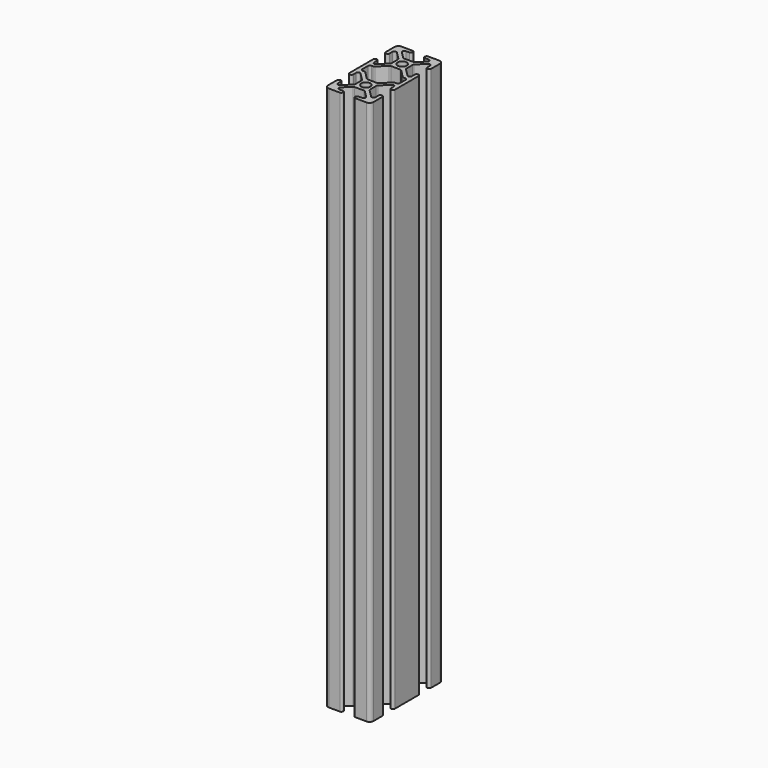
from build123d import *

# Parameters (mm, degrees)
F0_R     = 2.5
F1_DEPTH = 300


with BuildPart() as f1:
    # F0 (on Top) → F1 (new body)
    with BuildSketch(Plane.XY):
        with BuildLine():
            ThreePointArc((-10.36, 12.5), (-11.873209, 11.873209), (-12.5, 10.36))
            Line((-12.5, 10.36), (-12.5, 4.32))
            ThreePointArc((-12.5, 4.32), (-11.43, 3.25), (-10.36, 4.32))
            Line((-10.36, 4.32), (-10.36, 6.263583))
            ThreePointArc((-10.36, 6.263583), (-9.699471, 7.252134), (-8.533396, 7.020187))
            Line((-8.533396, 7.020187), (-4.363396, 2.850187))
            ThreePointArc((-4.363396, 2.850187), (-4.131449, 2.503054), (-4.05, 2.093583))
            Line((-4.05, 2.093583), (-4.05, 0))
            Line((-4.05, 0), (-4.05, -2.093583))
            ThreePointArc((-4.05, -2.093583), (-4.131449, -2.503054), (-4.363396, -2.850187))
            Line((-4.363396, -2.850187), (-8.533396, -7.020187))
            ThreePointArc((-8.533396, -7.020187), (-9.699471, -7.252134), (-10.36, -6.263583))
            Line((-10.36, -6.263583), (-10.36, -4.32))
            ThreePointArc((-10.36, -4.32), (-11.43, -3.25), (-12.5, -4.32))
            Line((-12.5, -4.32), (-12.5, -12.5))
            Line((-12.5, -12.5), (-12.5, -20.68))
            ThreePointArc((-12.5, -20.68), (-11.43, -21.75), (-10.36, -20.68))
            Line((-10.36, -20.68), (-10.36, -18.736417))
            ThreePointArc((-10.36, -18.736417), (-9.699471, -17.747866), (-8.533396, -17.979813))
            Line((-8.533396, -17.979813), (-4.363396, -22.149813))
            ThreePointArc((-4.363396, -22.149813), (-4.131449, -22.496946), (-4.05, -22.906417))
            Line((-4.05, -22.906417), (-4.05, -25))
            Line((-4.05, -25), (-4.05, -27.093583))
            ThreePointArc((-4.05, -27.093583), (-4.131449, -27.503054), (-4.363396, -27.850187))
            Line((-4.363396, -27.850187), (-8.533396, -32.020187))
            ThreePointArc((-8.533396, -32.020187), (-9.699471, -32.252134), (-10.36, -31.263583))
            Line((-10.36, -31.263583), (-10.36, -29.32))
            ThreePointArc((-10.36, -29.32), (-11.43, -28.25), (-12.5, -29.32))
            Line((-12.5, -29.32), (-12.5, -35.36))
            ThreePointArc((-12.5, -35.36), (-11.873209, -36.873209), (-10.36, -37.5))
            Line((-10.36, -37.5), (-4.32, -37.5))
            ThreePointArc((-4.32, -37.5), (-3.25, -36.43), (-4.32, -35.36))
            Line((-4.32, -35.36), (-6.263583, -35.36))
            ThreePointArc((-6.263583, -35.36), (-7.252134, -34.699471), (-7.020187, -33.533396))
            Line((-7.020187, -33.533396), (-3.310187, -29.823396))
            ThreePointArc((-3.310187, -29.823396), (-2.963054, -29.591449), (-2.553583, -29.51))
            Line((-2.553583, -29.51), (0, -29.51))
            Line((0, -29.51), (2.553583, -29.51))
            ThreePointArc((2.553583, -29.51), (2.963054, -29.591449), (3.310187, -29.823396))
            Line((3.310187, -29.823396), (7.020187, -33.533396))
            ThreePointArc((7.020187, -33.533396), (7.252134, -34.699471), (6.263583, -35.36))
            Line((6.263583, -35.36), (4.32, -35.36))
            ThreePointArc((4.32, -35.36), (3.25, -36.43), (4.32, -37.5))
            Line((4.32, -37.5), (10.36, -37.5))
            ThreePointArc((10.36, -37.5), (11.873209, -36.873209), (12.5, -35.36))
            Line((12.5, -35.36), (12.5, -29.32))
            ThreePointArc((12.5, -29.32), (11.43, -28.25), (10.36, -29.32))
            Line((10.36, -29.32), (10.36, -31.263583))
            ThreePointArc((10.36, -31.263583), (9.699471, -32.252134), (8.533396, -32.020187))
            Line((8.533396, -32.020187), (4.363396, -27.850187))
            ThreePointArc((4.363396, -27.850187), (4.131449, -27.503054), (4.05, -27.093583))
            Line((4.05, -27.093583), (4.05, -25))
            Line((4.05, -25), (4.05, -22.906417))
            ThreePointArc((4.05, -22.906417), (4.131449, -22.496946), (4.363396, -22.149813))
            Line((4.363396, -22.149813), (8.533396, -17.979813))
            ThreePointArc((8.533396, -17.979813), (9.699471, -17.747866), (10.36, -18.736417))
            Line((10.36, -18.736417), (10.36, -20.68))
            ThreePointArc((10.36, -20.68), (11.43, -21.75), (12.5, -20.68))
            Line((12.5, -20.68), (12.5, -12.5))
            Line((12.5, -12.5), (12.5, -4.32))
            ThreePointArc((12.5, -4.32), (11.43, -3.25), (10.36, -4.32))
            Line((10.36, -4.32), (10.36, -6.263583))
            ThreePointArc((10.36, -6.263583), (9.699471, -7.252134), (8.533396, -7.020187))
            Line((8.533396, -7.020187), (4.363396, -2.850187))
            ThreePointArc((4.363396, -2.850187), (4.131449, -2.503054), (4.05, -2.093583))
            Line((4.05, -2.093583), (4.05, 0))
            Line((4.05, 0), (4.05, 2.093583))
            ThreePointArc((4.05, 2.093583), (4.131449, 2.503054), (4.363396, 2.850187))
            Line((4.363396, 2.850187), (8.533396, 7.020187))
            ThreePointArc((8.533396, 7.020187), (9.699471, 7.252134), (10.36, 6.263583))
            Line((10.36, 6.263583), (10.36, 4.32))
            ThreePointArc((10.36, 4.32), (11.43, 3.25), (12.5, 4.32))
            Line((12.5, 4.32), (12.5, 10.36))
            ThreePointArc((12.5, 10.36), (11.873209, 11.873209), (10.36, 12.5))
            Line((10.36, 12.5), (4.32, 12.5))
            ThreePointArc((4.32, 12.5), (3.25, 11.43), (4.32, 10.36))
            Line((4.32, 10.36), (6.263583, 10.36))
            ThreePointArc((6.263583, 10.36), (7.252134, 9.699471), (7.020187, 8.533396))
            Line((7.020187, 8.533396), (3.310187, 4.823396))
            ThreePointArc((3.310187, 4.823396), (2.963054, 4.591449), (2.553583, 4.51))
            Line((2.553583, 4.51), (0, 4.51))
            Line((0, 4.51), (-2.553583, 4.51))
            ThreePointArc((-2.553583, 4.51), (-2.963054, 4.591449), (-3.310187, 4.823396))
            Line((-3.310187, 4.823396), (-7.020187, 8.533396))
            ThreePointArc((-7.020187, 8.533396), (-7.252134, 9.699471), (-6.263583, 10.36))
            Line((-6.263583, 10.36), (-4.32, 10.36))
            ThreePointArc((-4.32, 10.36), (-3.25, 11.43), (-4.32, 12.5))
            Line((-4.32, 12.5), (-10.36, 12.5))
        make_face()
        with Locations((0, -25)):
            Circle(F0_R, mode=Mode.SUBTRACT)
        with BuildLine():
            Line((-2.553583, -4.51), (0, -4.51))
            Line((0, -4.51), (2.553583, -4.51))
            ThreePointArc((2.553583, -4.51), (2.963054, -4.591449), (3.310187, -4.823396))
            Line((3.310187, -4.823396), (7.646979, -9.160187))
            ThreePointArc((7.646979, -9.160187), (7.994112, -9.392134), (8.403583, -9.473583))
            Line((8.403583, -9.473583), (9.29, -9.473583))
            ThreePointArc((9.29, -9.473583), (10.046604, -9.786979), (10.36, -10.543583))
            Line((10.36, -10.543583), (10.36, -12.5))
            Line((10.36, -12.5), (10.36, -14.456417))
            ThreePointArc((10.36, -14.456417), (10.046604, -15.213021), (9.29, -15.526417))
            Line((9.29, -15.526417), (8.403583, -15.526417))
            ThreePointArc((8.403583, -15.526417), (7.994112, -15.607866), (7.646979, -15.839813))
            Line((7.646979, -15.839813), (3.310187, -20.176604))
            ThreePointArc((3.310187, -20.176604), (2.963054, -20.408551), (2.553583, -20.49))
            Line((2.553583, -20.49), (0, -20.49))
            Line((0, -20.49), (-2.553583, -20.49))
            ThreePointArc((-2.553583, -20.49), (-2.963054, -20.408551), (-3.310187, -20.176604))
            Line((-3.310187, -20.176604), (-7.646979, -15.839813))
            ThreePointArc((-7.646979, -15.839813), (-7.994112, -15.607866), (-8.403583, -15.526417))
            Line((-8.403583, -15.526417), (-9.29, -15.526417))
            ThreePointArc((-9.29, -15.526417), (-10.046604, -15.213021), (-10.36, -14.456417))
            Line((-10.36, -14.456417), (-10.36, -12.5))
            Line((-10.36, -12.5), (-10.36, -10.543583))
            ThreePointArc((-10.36, -10.543583), (-10.046604, -9.786979), (-9.29, -9.473583))
            Line((-9.29, -9.473583), (-8.403583, -9.473583))
            ThreePointArc((-8.403583, -9.473583), (-7.994112, -9.392134), (-7.646979, -9.160187))
            Line((-7.646979, -9.160187), (-3.310187, -4.823396))
            ThreePointArc((-3.310187, -4.823396), (-2.963054, -4.591449), (-2.553583, -4.51))
        make_face(mode=Mode.SUBTRACT)
        Circle(F0_R, mode=Mode.SUBTRACT)
    extrude(amount=F1_DEPTH)


solid = f1.part
